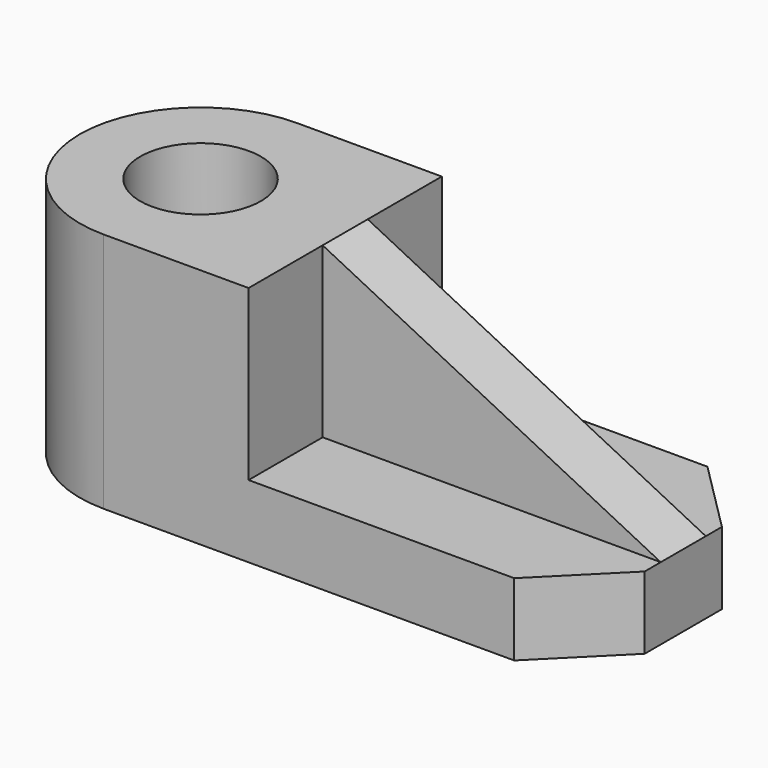
from build123d import *

# Parameters (mm, degrees)
F1_DEPTH = 38.1
F2_DEPTH = 8.89
F3_SIZE  = 22.86
F5_DEPTH = 76.2
F6_D     = 38.1


with BuildPart() as f1:
    # F0 (on Front) → F1 (new body, symmetric)
    with BuildSketch(Plane.XZ):
        Polygon((-71.271137, 76.2), (-71.271137, 0), (58.268863, 0), (81.128863, 0), (81.128863, 22.86), (-25.551137, 22.86), (-25.551137, 76.2), align=None)
    extrude(amount=F1_DEPTH, both=True)

    # F3
    f3_edges = [f1.edges().sort_by_distance(p)[0] for p in [
        (81.128863, -38.1, 11.43),
        (81.128863, 38.1, 11.43),
    ]]
    chamfer(f3_edges, length=F3_SIZE)

    # F4 (on Top) → F5 (join)
    with BuildSketch(Plane.XY):
        with BuildLine():
            ThreePointArc((-71.196891, -19.05), (-90.246891, 0), (-71.196891, 19.05))
            Line((-71.196891, 19.05), (-71.196891, 38.1))
            ThreePointArc((-71.196891, 38.1), (-109.296891, 0), (-71.196891, -38.1))
            Line((-71.196891, -38.1), (-71.196891, -19.05))
        make_face()
    extrude(amount=F5_DEPTH)

    # F6 (through all)
    with Locations(Plane(origin=(0, 0, 0), x_dir=(1, 0, 0), z_dir=(0, 0, -1))):
        with Locations((-71.196891, 0)):
            Hole(F6_D / 2)


with BuildPart() as f2:
    # F0 (on Front) → F2 (new body, symmetric)
    with BuildSketch(Plane.XZ):
        Polygon((81.128863, 22.86), (-25.551137, 76.2), (-25.551137, 22.86), align=None)
    extrude(amount=F2_DEPTH, both=True)


solid = Compound([f1.part, f2.part])
